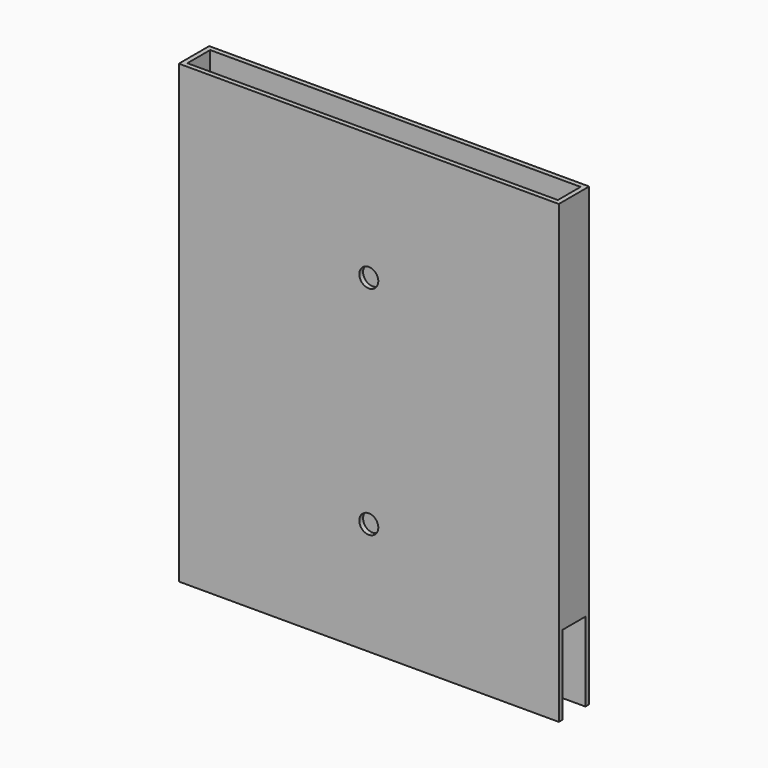
from build123d import *

# Parameters (mm, degrees)
F0_W     = 1524
F0_H     = 152.4
F0_W_2   = 1485.9
F0_H_2   = 114.3
F1_DEPTH = 1828.8
F2_W     = 114.3
F2_H     = 317.5
F3_DEPTH = 25.4
F5_DEPTH = 25.4
F7_DEPTH = 25.4


with BuildPart() as f1:
    # F0 (on Top) → F1 (new body)
    with BuildSketch(Plane.XY):
        Rectangle(F0_W, F0_H)
        Rectangle(F0_W_2, F0_H_2, mode=Mode.SUBTRACT)
    extrude(amount=F1_DEPTH)

    # F2 (on face) → F3 (cut)
    with BuildSketch(Plane.YZ.offset(762)):
        with Locations((0, 158.75)):
            Rectangle(F2_W, F2_H)
    extrude(amount=-F3_DEPTH, mode=Mode.SUBTRACT)

    # F4 (on face) → F5 (cut)
    with BuildSketch(Plane(origin=(0, 76.2, 0), x_dir=(-1, 0, 0), z_dir=(0, 1, 0))):
        with BuildLine():
            ThreePointArc((38.1, 1320.8), (26.940768, 1347.740768), (0, 1358.9))
            ThreePointArc((0, 1358.9), (-26.940768, 1293.859232), (38.1, 1320.8))
        make_face()
        with BuildLine():
            ThreePointArc((38.1, 450.85), (-26.940768, 477.790768), (0, 412.75))
            ThreePointArc((0, 412.75), (26.940768, 423.909232), (38.1, 450.85))
        make_face()
    extrude(amount=-F5_DEPTH, mode=Mode.SUBTRACT)

    # F6 (on face) → F7 (cut)
    with BuildSketch(Plane.XZ.offset(76.2)):
        with BuildLine():
            ThreePointArc((38.1, 1320.8), (26.940768, 1347.740768), (0, 1358.9))
            ThreePointArc((0, 1358.9), (-26.940768, 1293.859232), (38.1, 1320.8))
        make_face()
        with BuildLine():
            ThreePointArc((38.1, 450.85), (-26.940768, 477.790768), (0, 412.75))
            ThreePointArc((0, 412.75), (26.940768, 423.909232), (38.1, 450.85))
        make_face()
    extrude(amount=-F7_DEPTH, mode=Mode.SUBTRACT)


solid = f1.part
